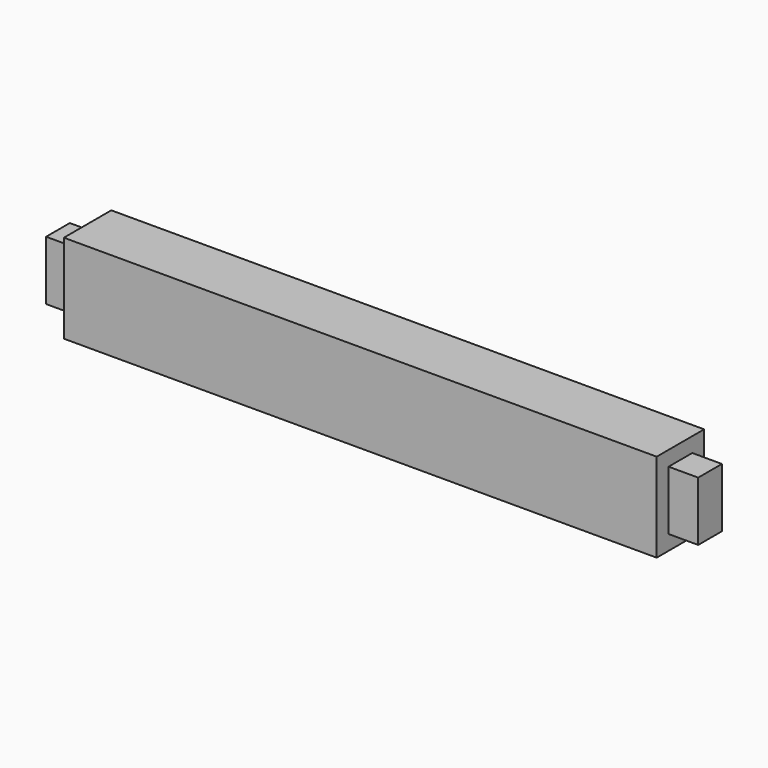
from build123d import *

# Parameters (mm, degrees)
F0_W     = 200
F0_H     = 30
F1_DEPTH = 20
F2_W     = 10
F2_H     = 20
F3_DEPTH = 10


with BuildPart() as f1:
    # F0 (on Front) → F1 (new body)
    with BuildSketch(Plane.XZ):
        Rectangle(F0_W, F0_H)
    extrude(amount=F1_DEPTH)

    # F2 (on face) → F3 (join)
    with BuildSketch(Plane(origin=(-100, 0, 0), x_dir=(0, -1, 0), z_dir=(-1, 0, 0))):
        with Locations((10, 0)):
            Rectangle(F2_W, F2_H)
    extrude(amount=F3_DEPTH)

    # F4: F1 across plane


with BuildPart() as f1_1:
    add(f1.part)
    add(f1.part.mirror(Plane.YZ))


solid = f1_1.part
